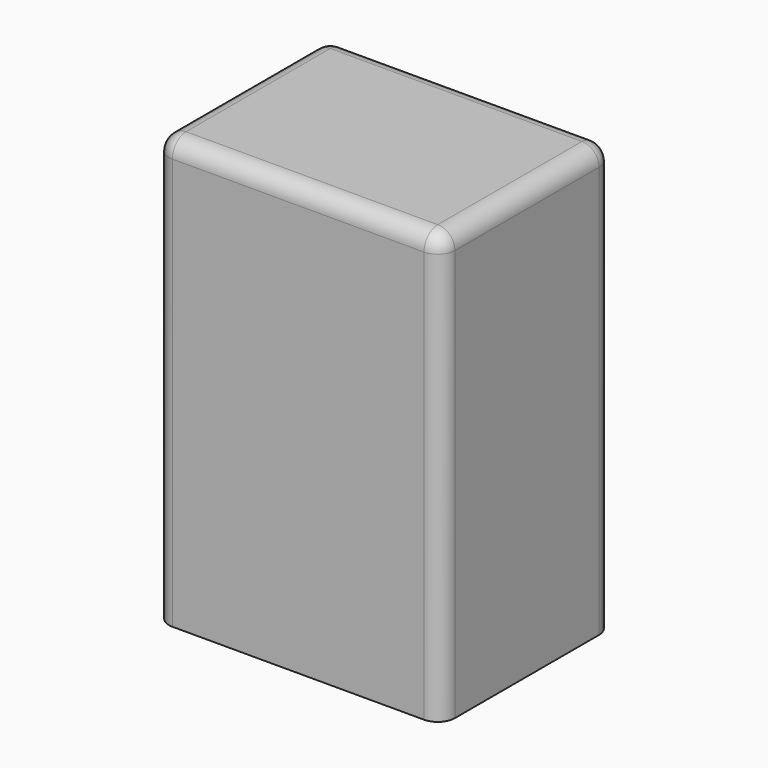
from build123d import *

# Parameters (mm, degrees)
F0_W     = 200
F0_H     = 150
F1_DEPTH = 300
F2_R     = 12
F3_T     = -5


with BuildPart() as f1:
    # F0 (on Top) → F1 (new body)
    with BuildSketch(Plane.XY):
        Rectangle(F0_W, F0_H)
    extrude(amount=F1_DEPTH)

    # F2
    f2_edges = [f1.edges().sort_by_distance(p)[0] for p in [
        (-100, 75, 150),
        (-100, 0, 300),
        (-100, -75, 150),
        (0, -75, 300),
        (100, 0, 300),
        (100, -75, 150),
        (100, 75, 150),
        (0, 75, 300),
    ]]
    fillet(f2_edges, radius=F2_R)

    # F3
    f3_openings = [f1.faces().sort_by_distance(p)[0] for p in [
        (0, 0, 0),
    ]]
    offset(amount=F3_T, openings=f3_openings)


solid = f1.part
